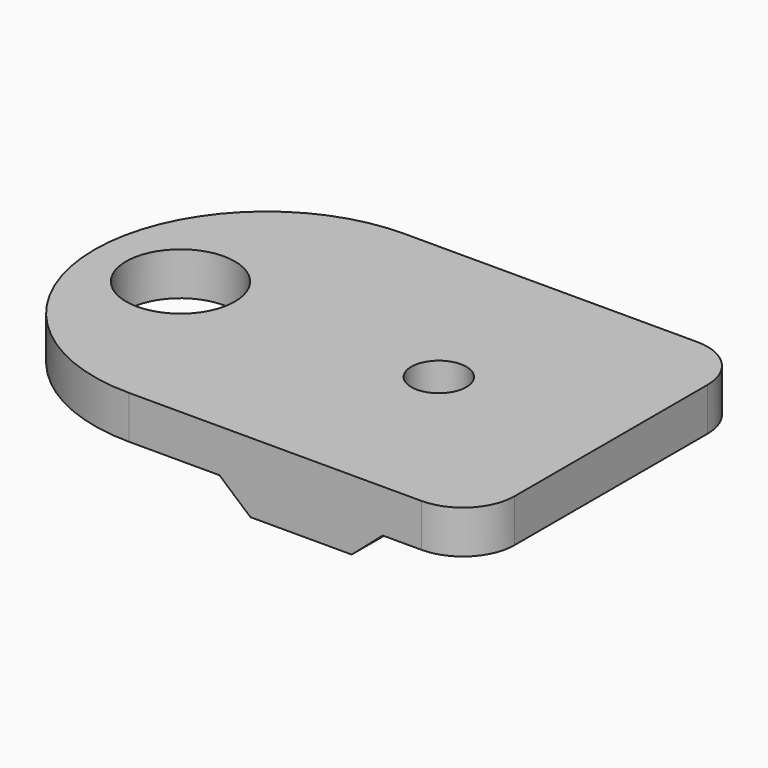
from build123d import *

# Parameters (mm, degrees)
SKETCH_R        = 3.16
PAD_DEPTH       = 2.5
PAD001_DEPTH    = 20
SKETCH002_R     = 1.6
POCKET_DEPTH    = 4.061
FILLET_R        = 3
SKETCH003_W     = 9.48
SKETCH003_H     = 9.48
POCKET001_DEPTH = 1.56


with BuildPart() as part:
    # Sketch → Pad (new body)
    with BuildSketch(Plane.XY):
        with BuildLine():
            Line((-10, 10), (10, 10))
            Line((10, 10), (10, -10))
            Line((10, -10), (-10, -10))
            ThreePointArc((-10, 10), (-20, 0), (-10, -10))
        make_face()
        with Locations((-15, 0)):
            Circle(SKETCH_R, mode=Mode.SUBTRACT)
    extrude(amount=PAD_DEPTH)

    # Sketch001 (on Face3 of Pad) → Pad001 (join)
    with BuildSketch(Plane.XZ.offset(10)):
        Polygon((-4.74, 0), (4.74, 0), (2.94, -1.56), (-2.94, -1.56), align=None)
    extrude(amount=-PAD001_DEPTH)

    # Sketch002 (on Face11 of Pad001) → Pocket (cut, through all)
    with BuildSketch(Plane(origin=(0, 0, -1.56), x_dir=(1, 0, 0), z_dir=(0, 0, -1))):
        Circle(SKETCH002_R)
    extrude(amount=-POCKET_DEPTH, mode=Mode.SUBTRACT)

    # Fillet
    fillet_edges = [part.edges().sort_by_distance(p)[0] for p in [
        (10, -10, 1.25),
        (10, 10, 1.25),
    ]]
    fillet(fillet_edges, radius=FILLET_R)

    # Sketch003 (on Face13 of Fillet) → Pocket001 (cut)
    with BuildSketch(Plane(origin=(0, 0, -1.56), x_dir=(1, 0, 0), z_dir=(0, 0, -1))):
        Rectangle(SKETCH003_W, SKETCH003_H)
    extrude(amount=-POCKET001_DEPTH, mode=Mode.SUBTRACT)


solid = part.part
